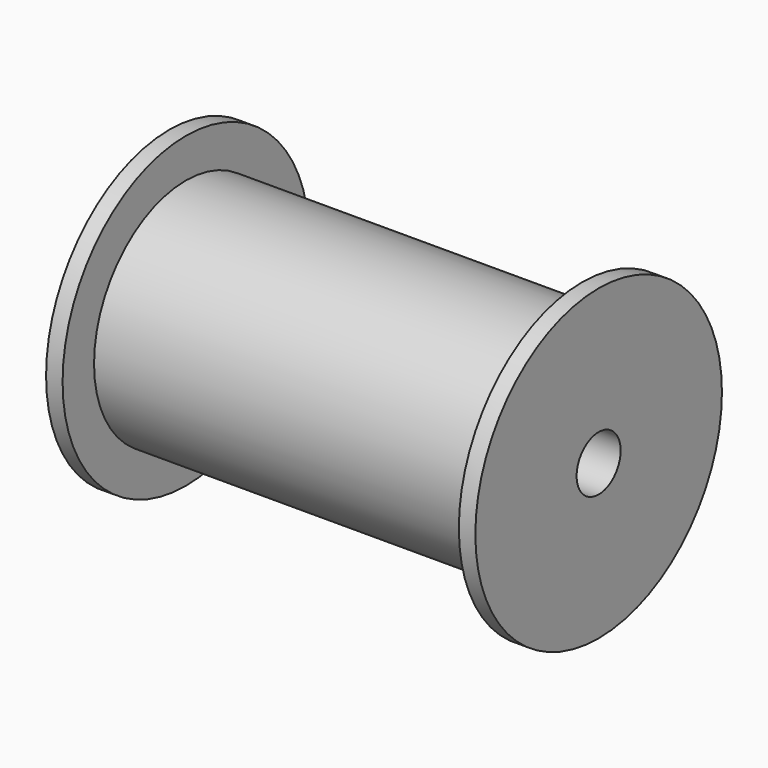
from build123d import *

# Parameters (mm, degrees)
F2_R     = 31.75
F3_DEPTH = 495.301


with BuildPart() as f1:
    # F0 (on Front) → F1 (revolve)
    with BuildSketch(Plane.XZ):
        Polygon((-247.65, 177.8), (-247.65, 0), (247.65, 0), (247.65, 177.8), (228.6, 177.8), (228.6, 132.434838), (-228.6, 132.434838), (-228.6, 177.8), align=None)
    revolve(axis=Axis((0, 0, 0), (1, 0, 0)))

    # F2 (on face) → F3 (cut, through all)
    with BuildSketch(Plane(origin=(-247.65, 0, 0), x_dir=(0, -1, 0), z_dir=(-1, 0, 0))):
        Circle(F2_R)
    extrude(amount=-F3_DEPTH, mode=Mode.SUBTRACT)


solid = f1.part
